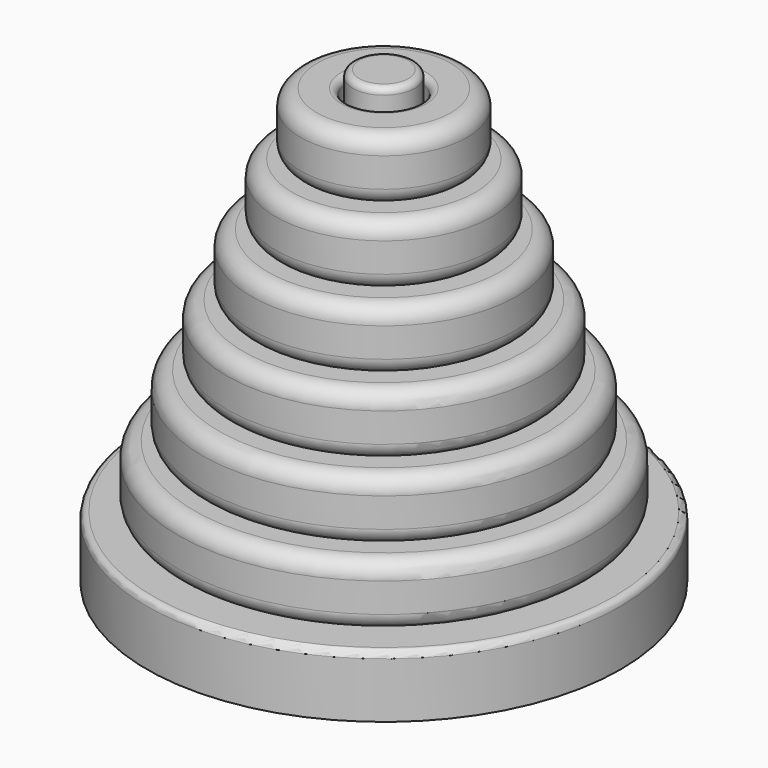
from build123d import *

# Parameters (mm, degrees)
F0_R      = 72.5
F1_DEPTH  = 19
F2_R      = 9.5
F3_DEPTH  = 119
F4_R      = 2
F5_R      = 63
F5_R_2    = 11
F6_DEPTH  = 19
F7_R      = 55.5
F7_R_2    = 11
F8_DEPTH  = 19
F9_R      = 48
F9_R_2    = 11
F10_DEPTH = 19
F11_R     = 40.5
F11_R_2   = 11
F12_DEPTH = 19
F13_R     = 33
F13_R_2   = 11
F14_DEPTH = 19
F15_R     = 25.5
F15_R_2   = 11
F16_DEPTH = 19
F17_R     = 5
F17_2_R   = 5
F17_3_R   = 5
F17_4_R   = 5
F17_5_R   = 5
F17_6_R   = 5
F18_R     = 2
F18_2_R   = 2
F18_3_R   = 2
F18_4_R   = 2
F18_5_R   = 2
F18_6_R   = 2


with BuildPart() as f1:
    # F0 (on Top) → F1 (new body)
    with BuildSketch(Plane.XY):
        Circle(F0_R)
    extrude(amount=F1_DEPTH)

    # F2 (on face) → F3 (join)
    with BuildSketch(Plane.XY.offset(19)):
        Circle(F2_R)
    extrude(amount=F3_DEPTH)

    # F4
    f4_edges = [f1.edges().sort_by_distance(p)[0] for p in [
        (-72.5, 0, 19),
        (-9.5, 0, 138),
    ]]
    fillet(f4_edges, radius=F4_R)


with BuildPart() as f6:
    # F5 (on face) → F6 (new body)
    with BuildSketch(Plane.XY.offset(19)):
        Circle(F5_R)
        Circle(F5_R_2, mode=Mode.SUBTRACT)
    extrude(amount=F6_DEPTH)

    # F17
    f17_edges = [f6.edges().sort_by_distance(p)[0] for p in [
        (63, 0, 28.5),
        (-63, 0, 19),
        (-63, 0, 38),
    ]]
    fillet(f17_edges, radius=F17_R)

    # F18
    f18_edges = [f6.edges().sort_by_distance(p)[0] for p in [
        (11, 0, 28.5),
        (-11, 0, 19),
        (-11, 0, 38),
    ]]
    fillet(f18_edges, radius=F18_R)


with BuildPart() as f8:
    # F7 (on face) → F8 (new body)
    with BuildSketch(Plane.XY.offset(38)):
        Circle(F7_R)
        Circle(F7_R_2, mode=Mode.SUBTRACT)
    extrude(amount=F8_DEPTH)

    # F17#2
    f17_2_edges = [f8.edges().sort_by_distance(p)[0] for p in [
        (55.5, 0, 47.5),
        (-55.5, 0, 38),
        (-55.5, 0, 57),
    ]]
    fillet(f17_2_edges, radius=F17_2_R)

    # F18#2
    f18_2_edges = [f8.edges().sort_by_distance(p)[0] for p in [
        (-11, 0, 38),
        (11, 0, 47.5),
        (-11, 0, 57),
    ]]
    fillet(f18_2_edges, radius=F18_2_R)


with BuildPart() as f10:
    # F9 (on face) → F10 (new body)
    with BuildSketch(Plane.XY.offset(57)):
        Circle(F9_R)
        Circle(F9_R_2, mode=Mode.SUBTRACT)
    extrude(amount=F10_DEPTH)

    # F17#3
    f17_3_edges = [f10.edges().sort_by_distance(p)[0] for p in [
        (48, 0, 66.5),
        (-48, 0, 57),
        (-48, 0, 76),
    ]]
    fillet(f17_3_edges, radius=F17_3_R)

    # F18#3
    f18_3_edges = [f10.edges().sort_by_distance(p)[0] for p in [
        (-11, 0, 57),
        (-11, 0, 76),
        (11, 0, 66.5),
    ]]
    fillet(f18_3_edges, radius=F18_3_R)


with BuildPart() as f12:
    # F11 (on face) → F12 (new body)
    with BuildSketch(Plane.XY.offset(76)):
        Circle(F11_R)
        Circle(F11_R_2, mode=Mode.SUBTRACT)
    extrude(amount=F12_DEPTH)

    # F17#4
    f17_4_edges = [f12.edges().sort_by_distance(p)[0] for p in [
        (40.5, 0, 85.5),
        (-40.5, 0, 76),
        (-40.5, 0, 95),
    ]]
    fillet(f17_4_edges, radius=F17_4_R)

    # F18#6
    f18_6_edges = [f12.edges().sort_by_distance(p)[0] for p in [
        (-11, 0, 95),
        (11, 0, 85.5),
        (-11, 0, 76),
    ]]
    fillet(f18_6_edges, radius=F18_6_R)


with BuildPart() as f14:
    # F13 (on face) → F14 (new body)
    with BuildSketch(Plane.XY.offset(95)):
        Circle(F13_R)
        Circle(F13_R_2, mode=Mode.SUBTRACT)
    extrude(amount=F14_DEPTH)

    # F17#5
    f17_5_edges = [f14.edges().sort_by_distance(p)[0] for p in [
        (33, 0, 104.5),
        (-33, 0, 95),
        (-33, 0, 114),
    ]]
    fillet(f17_5_edges, radius=F17_5_R)

    # F18#5
    f18_5_edges = [f14.edges().sort_by_distance(p)[0] for p in [
        (-11, 0, 114),
        (11, 0, 104.5),
        (-11, 0, 95),
    ]]
    fillet(f18_5_edges, radius=F18_5_R)


with BuildPart() as f16:
    # F15 (on face) → F16 (new body)
    with BuildSketch(Plane.XY.offset(114)):
        Circle(F15_R)
        Circle(F15_R_2, mode=Mode.SUBTRACT)
    extrude(amount=F16_DEPTH)

    # F17#6
    f17_6_edges = [f16.edges().sort_by_distance(p)[0] for p in [
        (25.5, 0, 123.5),
        (-25.5, 0, 114),
        (-25.5, 0, 133),
    ]]
    fillet(f17_6_edges, radius=F17_6_R)

    # F18#4
    f18_4_edges = [f16.edges().sort_by_distance(p)[0] for p in [
        (11, 0, 123.5),
        (-11, 0, 114),
        (-11, 0, 133),
    ]]
    fillet(f18_4_edges, radius=F18_4_R)


solid = Compound([f1.part, f6.part, f8.part, f10.part, f12.part, f14.part, f16.part])
